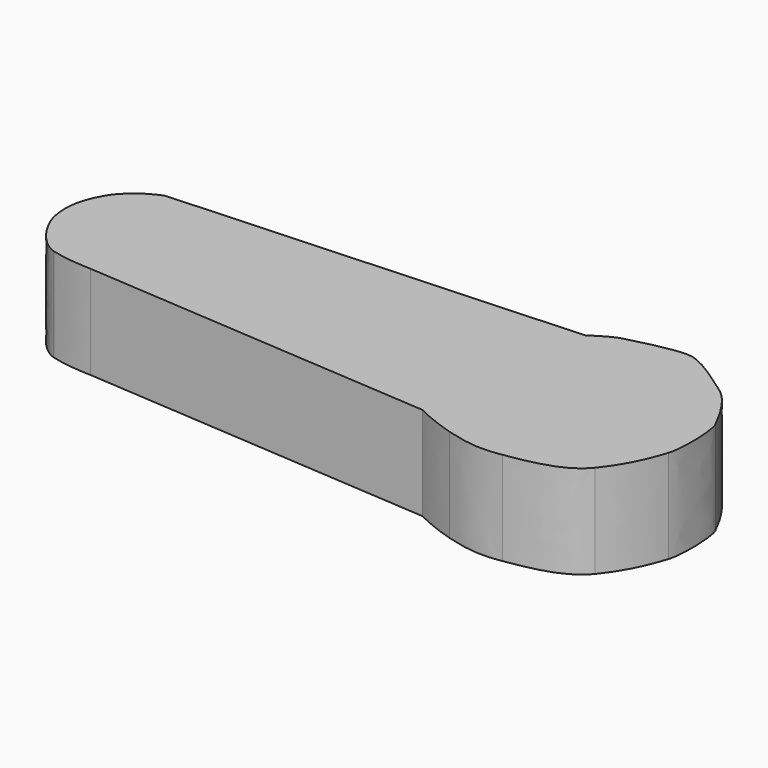
from build123d import *

# Parameters (mm, degrees)
EXTRUDE_DEPTH = 2


with BuildPart() as part:
    # path2399 → Extrude (new body)
    with BuildSketch(Plane(origin=(8.682374, -4.98127, 0), x_dir=(0, 1, 0), z_dir=(0, 0, 1))):
        with BuildLine():
            add(Edge.make_bspline(
                [(-1.415579, 5.024931), (-1.938341, -2.484397)],
                knots=[0, 0, 7.527502, 7.527502], degree=1))
            add(Edge.make_bspline(
                [(-1.938341, -2.484397), (-1.938341, -2.484397), (-2.134903, -2.858259), (-2.273136, -3.334737)],
                knots=[0, 0, 0, 0, 1, 1, 1, 1], degree=3))
            add(Edge.make_bspline(
                [(-2.273136, -3.334737), (-2.411369, -3.811216), (-2.443203, -4.128926), (-2.371685, -4.540758)],
                knots=[0, 0, 0, 0, 1, 1, 1, 1], degree=3))
            add(Edge.make_bspline(
                [(-2.371685, -4.540758), (-2.300167, -4.952591), (-2.218933, -5.672599), (-1.772797, -6.040394)],
                knots=[0, 0, 0, 0, 1, 1, 1, 1], degree=3))
            add(Edge.make_bspline(
                [(-1.772797, -6.040394), (-1.326661, -6.40819), (-0.861351, -6.572675), (-0.583202, -6.662312)],
                knots=[0, 0, 0, 0, 1, 1, 1, 1], degree=3))
            add(Edge.make_bspline(
                [(-0.583202, -6.662312), (-0.305053, -6.751952), (0.507781, -6.731952), (0.709843, -6.630052)],
                knots=[0, 0, 0, 0, 1, 1, 1, 1], degree=3))
            add(Edge.make_bspline(
                [(0.709843, -6.630052), (0.911905, -6.52815), (1.481843, -6.245909), (1.726833, -5.892641)],
                knots=[0, 0, 0, 0, 1, 1, 1, 1], degree=3))
            add(Edge.make_bspline(
                [(1.726833, -5.892641), (1.971823, -5.539373), (2.340182, -5.059724), (2.384256, -4.759981)],
                knots=[0, 0, 0, 0, 1, 1, 1, 1], degree=3))
            add(Edge.make_bspline(
                [(2.384256, -4.759981), (2.42833, -4.460237), (2.223091, -3.691858), (2.158411, -3.465999)],
                knots=[0, 0, 0, 0, 1, 1, 1, 1], degree=3))
            add(Edge.make_bspline(
                [(2.158411, -3.465999), (2.093732, -3.240141), (1.863634, -2.929328), (1.863634, -2.929328)],
                knots=[0, 0, 0, 0, 1, 1, 1, 1], degree=3))
            add(Edge.make_bspline(
                [(1.863634, -2.929328), (1.423808, 5.709855)],
                knots=[0, 0, 8.650371, 8.650371], degree=1))
            add(Edge.make_bspline(
                [(1.423808, 5.709855), (1.423808, 5.709855), (1.246198, 6.226563), (0.794563, 6.495307)],
                knots=[0, 0, 0, 0, 1, 1, 1, 1], degree=3))
            add(Edge.make_bspline(
                [(0.794563, 6.495307), (0.342929, 6.764051), (-0.057622, 6.753041), (-0.37358, 6.666974)],
                knots=[0, 0, 0, 0, 1, 1, 1, 1], degree=3))
            add(Edge.make_bspline(
                [(-0.37358, 6.666974), (-0.689538, 6.580907), (-1.208145, 6.230265), (-1.306201, 5.897514)],
                knots=[0, 0, 0, 0, 1, 1, 1, 1], degree=3))
            add(Edge.make_bspline(
                [(-1.306201, 5.897514), (-1.404257, 5.564763), (-1.415579, 5.024931), (-1.415579, 5.024931)],
                knots=[0, 0, 0, 0, 1, 1, 1, 1], degree=3))
        make_face()
    extrude(amount=EXTRUDE_DEPTH)


solid = part.part
